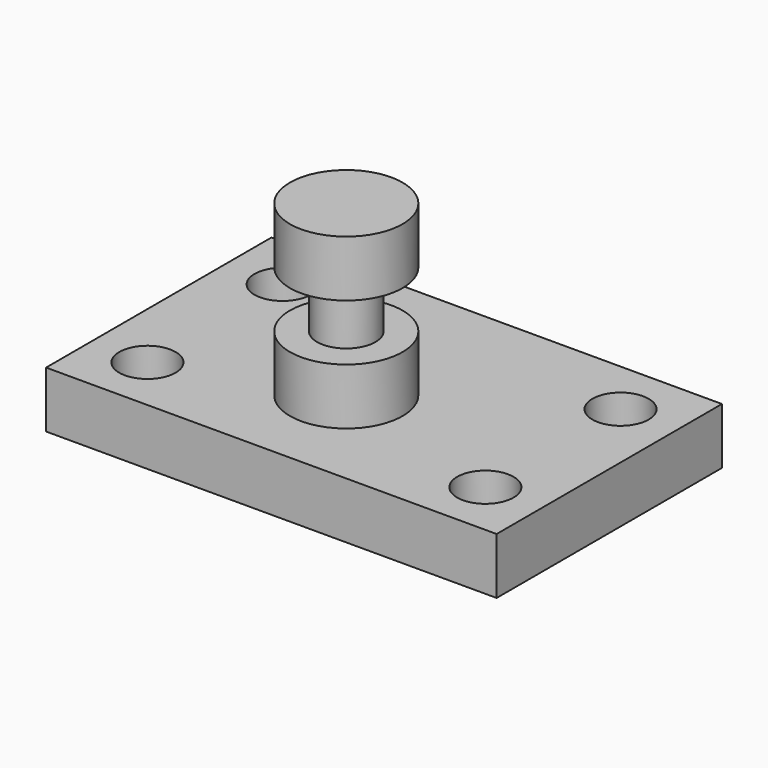
from build123d import *

# Parameters (mm, degrees)
F0_W     = 101.6
F0_H     = 63.5
F1_DEPTH = 12.7
F2_R     = 6.35
F3_DEPTH = 12.701
F4_W     = 12.7
F4_H     = 38.1
F6_W     = 25.375047
F6_H     = 12.7


with BuildPart() as f1:
    # F0 (on Top) → F1 (new body)
    with BuildSketch(Plane.XY):
        with Locations((2.934791, 6.967624)):
            Rectangle(F0_W, F0_H)
    extrude(amount=F1_DEPTH)

    # F2 (on face) → F3 (cut, through all)
    with BuildSketch(Plane.XY.offset(12.7)):
        with Locations((-35.165209, 26.017624)):
            Circle(F2_R)
        with Locations((-35.165209, -12.082376)):
            Circle(F2_R)
        with Locations((41.034791, -12.082376)):
            Circle(F2_R)
        with Locations((41.034791, 26.017624)):
            Circle(F2_R)
    extrude(amount=-F3_DEPTH, mode=Mode.SUBTRACT)

    # F4 (on Front) → F5 (revolve)
    with BuildSketch(Plane.XZ):
        with Locations((-6.35, 31.75)):
            Rectangle(F4_W, F4_H)
    revolve(axis=Axis((0, 0, 31.75), (0, 0, -1)))

    # F6 (on Front) → F7 (revolve, cut)
    with BuildSketch(Plane.XZ):
        with Locations((-19.26654, 31.75)):
            Rectangle(F6_W, F6_H)
    revolve(axis=Axis((0, 0, 26.451318), (0, 0, 1)), mode=Mode.SUBTRACT)


solid = f1.part
